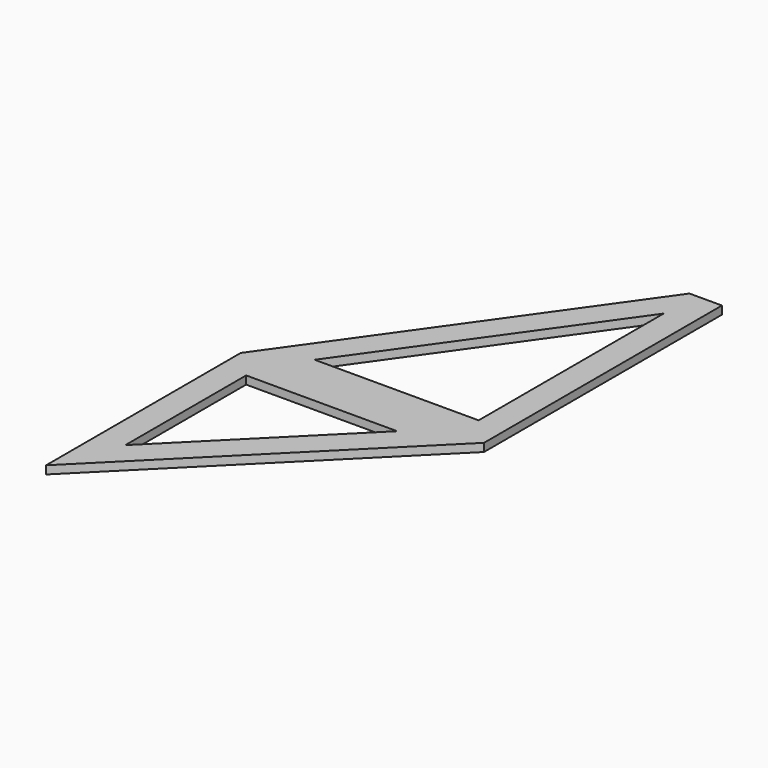
from build123d import *

# Parameters (mm, degrees)
F1_DEPTH = 1.5


with BuildPart() as f1:
    # F0 (on Top) → F1 (new body)
    with BuildSketch(Plane.XY):
        Polygon((39, 55), (0, 0), (45, 0), (45, 55), align=None)
        Polygon((9.674912, 5), (40, 47.76615), (40, 5), align=None, mode=Mode.SUBTRACT)
        Polygon((45, 0), (0, 0), (0, -45), align=None)
        Polygon((5, -32.928932), (5, -5), (32.928932, -5), align=None, mode=Mode.SUBTRACT)
    extrude(amount=F1_DEPTH)


solid = f1.part
